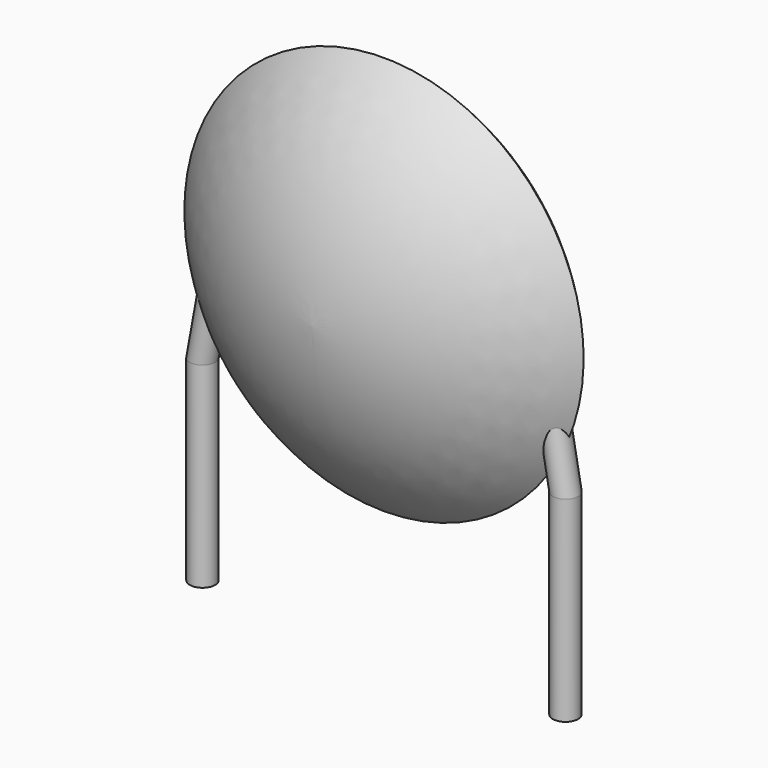
from build123d import *

# Parameters (mm, degrees)
SKETCH001_R       = 0.35
PAD001_DEPTH      = 2.2
PAD001_DEPTH_BACK = 3.2
SKETCH002_R       = 0.35
SKETCH003_R       = 0.35
SKETCH004_R       = 0.35
SKETCH005_R       = 0.35


with BuildPart() as pad001:
    # Sketch001 → Pad001 (new body, two sides)
    with BuildSketch(Plane.XY) as pad001_sk:
        Circle(SKETCH001_R)
        with Locations((10, 0)):
            Circle(SKETCH001_R)
    extrude(amount=PAD001_DEPTH)
    extrude(pad001_sk.sketch, amount=-PAD001_DEPTH_BACK)


with BuildPart() as revolution:
    # Sketch → Revolution (revolve)
    with BuildSketch(Plane.YZ.offset(5)):
        with BuildLine():
            Line((-2.5, 5.6), (2.5, 5.6))
            ThreePointArc((0, 0.1), (1.805122, 2.597672), (2.5, 5.6))
            ThreePointArc((-2.5, 5.6), (-1.805122, 2.597672), (0, 0.1))
        make_face()
    revolve(axis=Axis((5, -3.32079, 5.6), (0, 1, 0)))


with BuildPart() as loft_body:
    # Sketch002 → Loft section 0
    with BuildSketch(Plane.XY.offset(5.5)):
        with Locations((0.6, 0)):
            Circle(SKETCH002_R)
    # Sketch003 → Loft section 1
    with BuildSketch(Plane.XY.offset(2.2)):
        Circle(SKETCH003_R)
    loft()


with BuildPart() as loft001:
    # Sketch004 → Loft001 section 0
    with BuildSketch(Plane.XY.offset(2.2)):
        with Locations((10, 0)):
            Circle(SKETCH004_R)
    # Sketch005 → Loft001 section 1
    with BuildSketch(Plane.XY.offset(5.5)):
        with Locations((9.4, 0)):
            Circle(SKETCH005_R)
    loft()


solid = Compound([pad001.part, revolution.part, loft_body.part, loft001.part])
